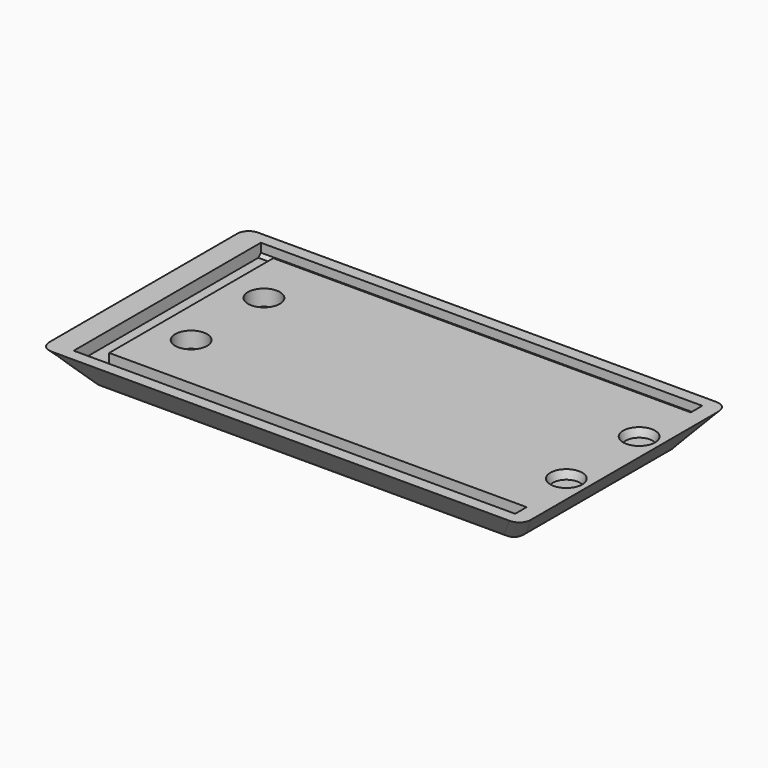
from build123d import *

# Parameters (mm, degrees)
SKETCH011_W     = 60.3
SKETCH011_H     = 32.3
PAD003_DEPTH    = 4.5
PAD003_TAPER    = 40
FILLET001_R     = 2
PAD004_DEPTH    = 0.5
PAD005_DEPTH    = 0.4
SKETCH014_R     = 2
POCKET008_DEPTH = 2
SKETCH015_R     = 2
POCKET009_DEPTH = 1
POCKET009_TAPER = 17.5
POCKET015_DEPTH = 1.5
CHAMFER002_SIZE = 0.4


with BuildPart() as part:
    # Sketch011 → Pad003 (new body)
    with BuildSketch(Plane.XY):
        with Locations((-2.81, -16.15)):
            Rectangle(SKETCH011_W, SKETCH011_H)
    extrude(amount=-PAD003_DEPTH, taper=PAD003_TAPER)

    # Fillet001
    fillet001_edges = [part.edges().sort_by_distance(p)[0] for p in [
        (-29.184052, -16.15, -4.5),
        (-31.072026, -1.887974, -2.25),
        (-2.81, -3.775948, -4.5),
        (-2.81, -28.524052, -4.5),
        (25.452026, -1.887974, -2.25),
        (23.564052, -16.15, -4.5),
        (25.452026, -30.412026, -2.25),
        (-31.072026, -30.412026, -2.25),
    ]]
    fillet(fillet001_edges, radius=FILLET001_R)

    # Sketch012 (on Face13 of Fillet001) → Pad004 (join)
    with BuildSketch(Plane(origin=(0, 0, -4.5), x_dir=(1, 0, 0), z_dir=(0, 0, -1))):
        with BuildLine():
            Line((4.381436, 25.091436), (4.381436, 21.591436))
            ThreePointArc((4.381436, 21.591436), (4.527883, 21.237883), (4.881436, 21.091436))
            Line((4.881436, 21.091436), (16.631436, 21.091436))
            ThreePointArc((16.631436, 21.091436), (16.98499, 21.237883), (17.131436, 21.591436))
            Line((17.131436, 21.591436), (17.131436, 25.091436))
            ThreePointArc((17.131436, 25.091436), (16.98499, 25.44499), (16.631436, 25.591436))
            Line((16.631436, 25.591436), (4.881436, 25.591436))
            ThreePointArc((4.881436, 25.591436), (4.527883, 25.44499), (4.381436, 25.091436))
        make_face()
        with BuildLine():
            Line((4.381436, 10.708564), (4.381436, 7.208564))
            ThreePointArc((4.381436, 7.208564), (4.527883, 6.85501), (4.881436, 6.708564))
            Line((4.881436, 6.708564), (16.631436, 6.708564))
            ThreePointArc((16.631436, 6.708564), (16.98499, 6.85501), (17.131436, 7.208564))
            Line((17.131436, 7.208564), (17.131436, 10.708564))
            ThreePointArc((17.131436, 10.708564), (16.98499, 11.062117), (16.631436, 11.208564))
            Line((16.631436, 11.208564), (4.881436, 11.208564))
            ThreePointArc((4.881436, 11.208564), (4.527883, 11.062117), (4.381436, 10.708564))
        make_face()
        with BuildLine():
            Line((-27.351436, 22.025), (-27.351436, 10.275))
            ThreePointArc((-27.351436, 10.275), (-27.20499, 9.921447), (-26.851436, 9.775))
            Line((-26.851436, 9.775), (-23.351436, 9.775))
            ThreePointArc((-23.351436, 9.775), (-22.997883, 9.921447), (-22.851436, 10.275))
            Line((-22.851436, 10.275), (-22.851436, 22.025))
            ThreePointArc((-22.851436, 22.025), (-22.997883, 22.378553), (-23.351436, 22.525))
            Line((-23.351436, 22.525), (-26.851436, 22.525))
            ThreePointArc((-26.851436, 22.525), (-27.20499, 22.378553), (-27.351436, 22.025))
        make_face()
    extrude(amount=PAD004_DEPTH)

    # Sketch013 (on Face45 of Pad004) → Pad005 (join)
    with BuildSketch(Plane(origin=(0, 0, -5), x_dir=(1, 0, 0), z_dir=(0, 0, -1))):
        with BuildLine():
            Line((4.781436, 24.941436), (4.781436, 21.741436))
            ThreePointArc((4.781436, 21.741436), (4.85466, 21.56466), (5.031436, 21.491436))
            Line((5.031436, 21.491436), (16.481436, 21.491436))
            ThreePointArc((16.481436, 21.491436), (16.658213, 21.56466), (16.731436, 21.741436))
            Line((16.731436, 21.741436), (16.731436, 24.941436))
            ThreePointArc((16.731436, 24.941436), (16.658213, 25.118213), (16.481436, 25.191436))
            Line((16.481436, 25.191436), (5.031436, 25.191436))
            ThreePointArc((5.031436, 25.191436), (4.85466, 25.118213), (4.781436, 24.941436))
        make_face()
        with BuildLine():
            Line((4.781436, 10.558564), (4.781436, 7.358564))
            ThreePointArc((4.781436, 7.358564), (4.85466, 7.181787), (5.031436, 7.108564))
            Line((5.031436, 7.108564), (16.481436, 7.108564))
            ThreePointArc((16.481436, 7.108564), (16.658213, 7.181787), (16.731436, 7.358564))
            Line((16.731436, 7.358564), (16.731436, 10.558564))
            ThreePointArc((16.731436, 10.558564), (16.658213, 10.73534), (16.481436, 10.808564))
            Line((16.481436, 10.808564), (5.031436, 10.808564))
            ThreePointArc((5.031436, 10.808564), (4.85466, 10.73534), (4.781436, 10.558564))
        make_face()
        with BuildLine():
            Line((-26.951436, 21.875), (-26.951436, 10.425))
            ThreePointArc((-26.951436, 10.425), (-26.878213, 10.248223), (-26.701436, 10.175))
            Line((-26.701436, 10.175), (-23.501436, 10.175))
            ThreePointArc((-23.501436, 10.175), (-23.32466, 10.248223), (-23.251436, 10.425))
            Line((-23.251436, 10.425), (-23.251436, 21.875))
            ThreePointArc((-23.251436, 21.875), (-23.32466, 22.051777), (-23.501436, 22.125))
            Line((-23.501436, 22.125), (-26.701436, 22.125))
            ThreePointArc((-26.701436, 22.125), (-26.878213, 22.051777), (-26.951436, 21.875))
        make_face()
    extrude(amount=PAD005_DEPTH)

    # Sketch014 → Pocket008 (cut)
    with BuildSketch(Plane.XY):
        with Locations((-22.41, -10.45)):
            Circle(SKETCH014_R)
        with Locations((-22.41, -21.85)):
            Circle(SKETCH014_R)
    extrude(amount=-POCKET008_DEPTH, mode=Mode.SUBTRACT)

    # Sketch015 → Pocket009 (cut)
    with BuildSketch(Plane.XY):
        with Locations((24.59, -10.45)):
            Circle(SKETCH015_R)
        with Locations((24.59, -21.85)):
            Circle(SKETCH015_R)
    extrude(amount=-POCKET009_DEPTH, taper=POCKET009_TAPER, mode=Mode.SUBTRACT)

    # Sketch025 (on Face2 of Pocket009) → Pocket015 (cut)
    with BuildSketch(Plane.XY):
        Polygon((25.34, -1.5), (25.34, -3.3), (-26.96, -3.3), (-26.96, -29), (25.34, -29), (25.34, -30.8), (-29.96, -30.8), (-29.96, -1.5), align=None)
    extrude(amount=-POCKET015_DEPTH, mode=Mode.SUBTRACT)

    # Chamfer002
    chamfer002_edges = [part.edges().sort_by_distance(p)[0] for p in [
        (25.34, -2.4, -1.5),
        (25.34, -29.9, -1.5),
        (-2.31, -1.5, -1.5),
        (-2.31, -30.8, -1.5),
    ]]
    chamfer(chamfer002_edges, length=CHAMFER002_SIZE)


with BuildPart() as part_1:
    # Body002 placement: moved
    add(part.part.moved(Location((0, -30.35, 0))))


solid = part_1.part
